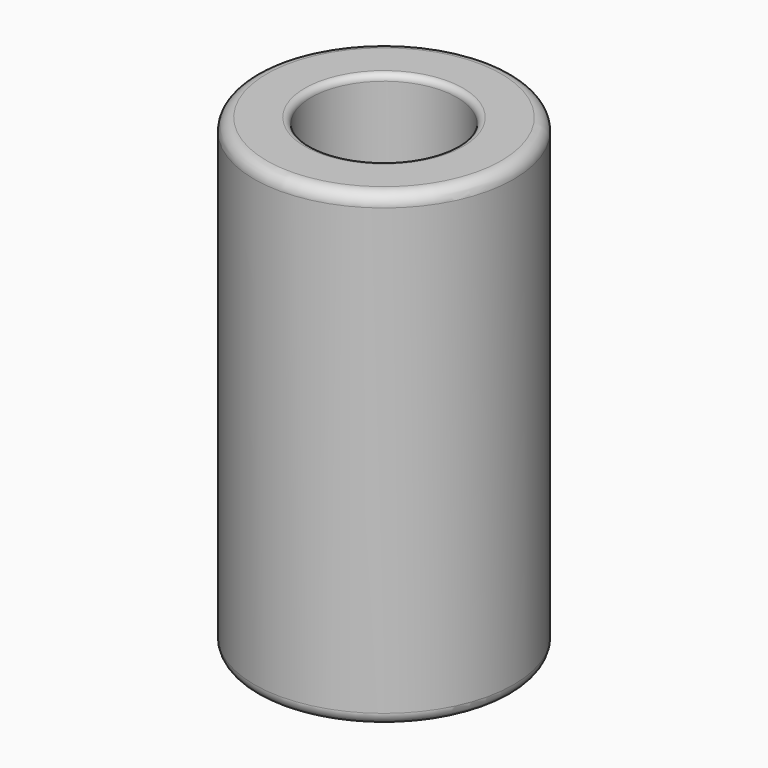
from build123d import *

# Parameters (mm, degrees)
F0_R     = 26.67
F1_DEPTH = 96.52
F2_R     = 14.986
F3_DEPTH = 96.521
F4_R     = 2.54
F5_R     = 1.27


with BuildPart() as f1:
    # F0 (on Top) → F1 (new body)
    with BuildSketch(Plane.XY):
        Circle(F0_R)
    extrude(amount=F1_DEPTH)

    # F2 (on face) → F3 (cut, through all)
    with BuildSketch(Plane.XY.offset(96.52)):
        Circle(F2_R)
    extrude(amount=-F3_DEPTH, mode=Mode.SUBTRACT)

    # F4
    f4_edges = [f1.edges().sort_by_distance(p)[0] for p in [
        (-26.67, 0, 0),
        (-26.67, 0, 96.52),
    ]]
    fillet(f4_edges, radius=F4_R)

    # F5
    f5_edges = [f1.edges().sort_by_distance(p)[0] for p in [
        (-14.986, 0, 96.52),
        (-14.986, 0, 0),
    ]]
    fillet(f5_edges, radius=F5_R)


solid = f1.part
